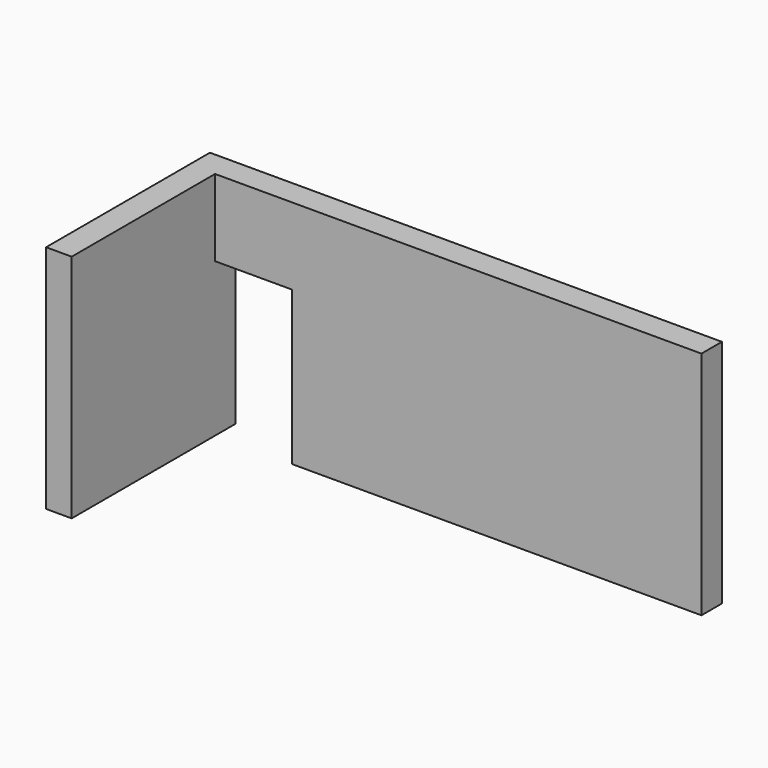
from build123d import *

# Parameters (mm, degrees)
BOX008_W     = 1
BOX008_H     = 8
BOX008_DEPTH = 9
BOX009_W     = 16
BOX009_H     = 1
BOX009_DEPTH = 9
BOX010_W     = 3
BOX010_H     = 1
BOX010_DEPTH = 3


with BuildPart() as box008:
    # Box008 → Box008 (new body)
    with BuildSketch(Plane(origin=(24, 1, 1), x_dir=(1, 0, 0), z_dir=(0, 0, 1))):
        with Locations((0.5, 4)):
            Rectangle(BOX008_W, BOX008_H)
    extrude(amount=BOX008_DEPTH)


with BuildPart() as box009:
    # Box009 → Box009 (new body)
    with BuildSketch(Plane(origin=(28, 8, 1), x_dir=(1, 0, 0), z_dir=(0, 0, 1))):
        with Locations((8, 0.5)):
            Rectangle(BOX009_W, BOX009_H)
    extrude(amount=BOX009_DEPTH)


with BuildPart() as fusion005:
    # Box010 → Box010 (new body)
    with BuildSketch(Plane(origin=(25, 8, 7), x_dir=(1, 0, 0), z_dir=(0, 0, 1))):
        with Locations((1.5, 0.5)):
            Rectangle(BOX010_W, BOX010_H)
    extrude(amount=BOX010_DEPTH)

    # Fusion005: union Box008, Box009
    add(box008.part)
    add(box009.part)


solid = fusion005.part
